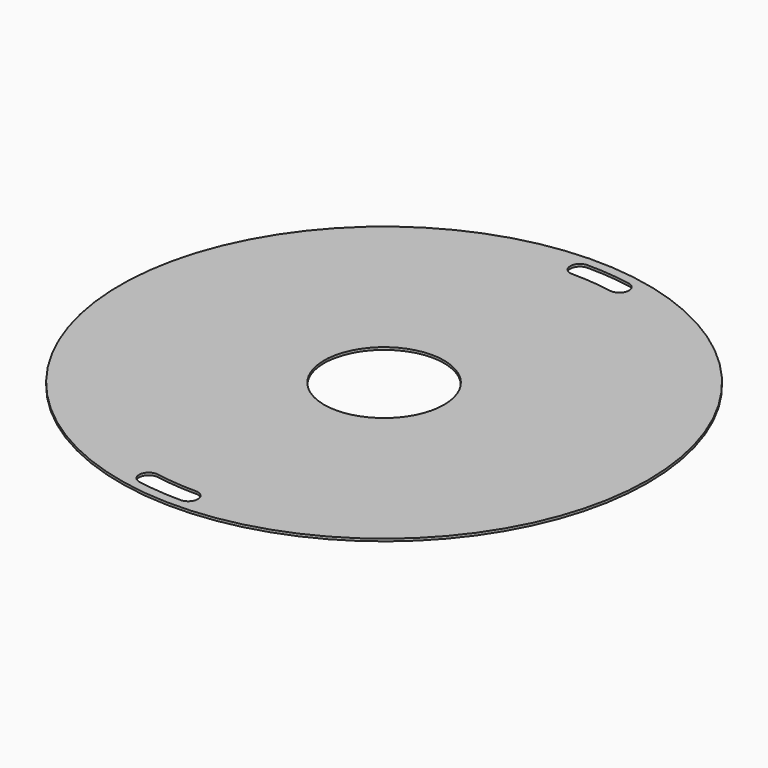
from build123d import *

# Parameters (mm, degrees)
F0_R     = 550
F1_DEPTH = 5


with BuildPart() as f1:
    # F0 (on Top) → F1 (new body)
    with BuildSketch(Plane.XY):
        with Locations((793.269665, 66.517037)):
            Circle(F0_R)
        with BuildLine():
            ThreePointArc((708.182058, -416.038762), (750.563351, -421.618365), (793.269665, -423.482963))
            ThreePointArc((793.269665, -423.482963), (813.269665, -443.482963), (793.269665, -463.482963))
            ThreePointArc((793.269665, -463.482963), (747.077121, -461.466153), (701.23613, -455.431072))
            ThreePointArc((701.23613, -455.431072), (685.012939, -432.261953), (708.182058, -416.038762))
        make_face(mode=Mode.SUBTRACT)
        with BuildLine():
            ThreePointArc((814.975687, 189.618006), (889.02522, 146.865488), (918.269665, 66.517037))
            ThreePointArc((918.269665, 66.517037), (793.269665, -58.482963), (668.269665, 66.517037))
            ThreePointArc((668.269665, 66.517037), (668.388637, 71.969461), (668.745327, 77.411505))
            ThreePointArc((668.745327, 77.411505), (708.820889, 158.676704), (793.269665, 191.517037))
            Line((793.269665, 191.517037), (793.269665, 556.517037))
            ThreePointArc((793.269665, 556.517037), (773.269665, 576.517037), (793.269665, 596.517037))
            ThreePointArc((793.269665, 596.517037), (839.462208, 594.500227), (885.303199, 588.465146))
            ThreePointArc((885.303199, 588.465146), (901.52639, 565.296028), (878.357272, 549.072836))
            Line((878.357272, 549.072836), (814.975687, 189.618006))
        make_face(mode=Mode.SUBTRACT)
        with BuildLine():
            ThreePointArc((793.269665, 191.517037), (804.164132, 191.041374), (814.975687, 189.618006))
            Line((814.975687, 189.618006), (878.357272, 549.072836))
            ThreePointArc((878.357272, 549.072836), (835.975979, 554.652439), (793.269665, 556.517037))
            Line((793.269665, 556.517037), (793.269665, 191.517037))
        make_face()
    extrude(amount=F1_DEPTH)


solid = f1.part
